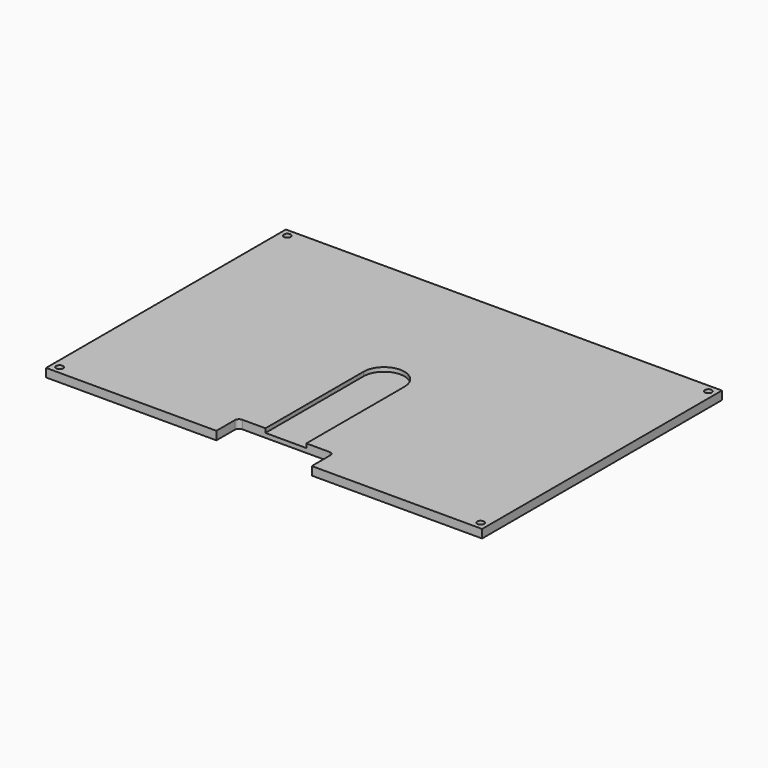
from build123d import *

# Parameters (mm, degrees)
F0_W     = 320
F0_H     = 220
F0_R     = 2.5
F1_DEPTH = 6.2
F3_DEPTH = 3
F4_W     = 70
F4_H     = 20
F5_DEPTH = 25
F6_R     = 3


with BuildPart() as f1:
    # F0 (on Top) → F1 (new body)
    with BuildSketch(Plane.XY):
        Rectangle(F0_W, F0_H)
        with Locations((-154.5, -104.5)):
            Circle(F0_R, mode=Mode.SUBTRACT)
        with Locations((154.5, -104.5)):
            Circle(F0_R, mode=Mode.SUBTRACT)
        with Locations((-154.5, 104.5)):
            Circle(F0_R, mode=Mode.SUBTRACT)
        with Locations((154.5, 104.5)):
            Circle(F0_R, mode=Mode.SUBTRACT)
    extrude(amount=F1_DEPTH)

    # F2 (on face) → F3 (cut)
    with BuildSketch(Plane.XY.offset(6.2)):
        with BuildLine():
            Line((-15, 0), (15, 0))
            ThreePointArc((15, 0), (0, 15), (-15, 0))
        make_face()
        with BuildLine():
            Line((15, -110), (15, 0))
            ThreePointArc((15, 0), (0, -15), (-15, 0))
            Line((-15, 0), (-15, -110))
            Line((-15, -110), (15, -110))
        make_face()
        with BuildLine():
            ThreePointArc((-15, 0), (0, -15), (15, 0))
            Line((15, 0), (-15, 0))
        make_face()
    extrude(amount=-F3_DEPTH, mode=Mode.SUBTRACT)

    # F4 (on face) → F5 (cut)
    with BuildSketch(Plane.XY.offset(6.2)):
        with Locations((0, -100)):
            Rectangle(F4_W, F4_H)
    extrude(amount=-F5_DEPTH, mode=Mode.SUBTRACT)

    # F6
    f6_edges = [f1.edges().sort_by_distance(p)[0] for p in [
        (35, -90, 3.1),
        (-35, -90, 3.1),
    ]]
    fillet(f6_edges, radius=F6_R)


solid = f1.part
